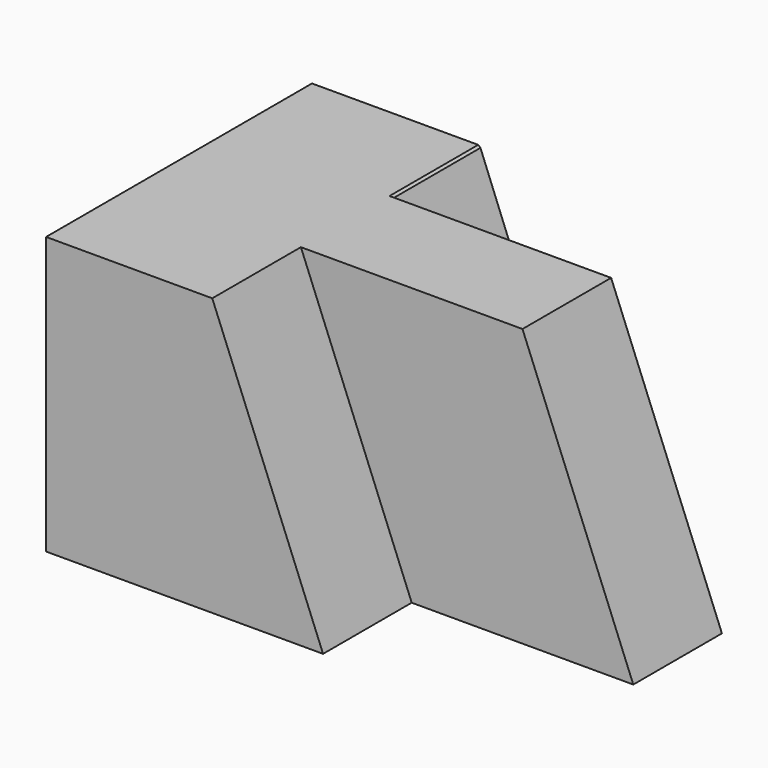
from build123d import *

# Parameters (mm, degrees)
F0_W       = 57.15
F0_H       = 31.75
F1_DEPTH   = 38.1
F1_FACE1_W = 57.15
F1_FACE1_H = 31.75
F3_DEPTH   = 12.7
F5_DEPTH   = 12.7
F6_DEPTH   = 12.7
F9_DEPTH   = 12.7
F11_DEPTH  = 25.401


with BuildPart() as f1:
    # F0 (on Front) → F1 (new body)
    with BuildSketch(Plane.XZ):
        with Locations((-28.575, 15.875)):
            Rectangle(F0_W, F0_H)
        with Locations((-28.575, 15.875)):
            Rectangle(F0_W, F0_H)
    extrude(amount=F1_DEPTH)

    # F2 (on face) + F1_face1 (on face) → F3 (cut)
    with BuildSketch(Plane.XZ.offset(38.1)):
        Polygon((0, 31.75), (-38.1, 31.75), (-25.4, 0), (0, 0), align=None)
    with BuildSketch(Plane(origin=(-28.575, 0, 15.875), x_dir=(1, 0, 0), z_dir=(0, 1, 0))):
        Rectangle(F1_FACE1_W, F1_FACE1_H)
    extrude(amount=-F3_DEPTH, dir=(0, -1, 0), mode=Mode.SUBTRACT)

    # F4 (on face) → F5 (join)
    with BuildSketch(Plane(origin=(0, 0, 0), x_dir=(-1, 0, 0), z_dir=(0, 1, 0))):
        Polygon((0, 0), (38.1, 31.75), (0, 31.75), align=None)
    extrude(amount=F5_DEPTH)

    # F6 (cut): a face of the model
    f6_faces = [f1.faces().sort_by_distance(p)[0] for p in [
        (-12.7, 12.7, 21.1666666667),
    ]]
    extrude(f6_faces, amount=-F6_DEPTH, mode=Mode.SUBTRACT)

    # F8 (on face) + F7 (on face) → F9 (cut)
    with BuildSketch(Plane(origin=(0, 0, 0), x_dir=(-1, 0, 0), z_dir=(0, 1, 0))):
        Polygon((0, 0), (25.4, 0), (37.8385369144, 31.5321140954), align=None)
    with BuildSketch(Plane(origin=(0, 0, 0), x_dir=(-1, 0, 0), z_dir=(0, 1, 0))):
        Polygon((0, 31.75), (0, 0), (38.1, 31.75), align=None)
    extrude(amount=-F9_DEPTH, mode=Mode.SUBTRACT)

    # F10 (on face) → F11 (cut, through all)
    with BuildSketch(Plane.XZ.offset(25.4)):
        Polygon((0, 31.75), (-12.7, 31.75), (0, 0), align=None)
    extrude(amount=-F11_DEPTH, mode=Mode.SUBTRACT)


solid = f1.part
